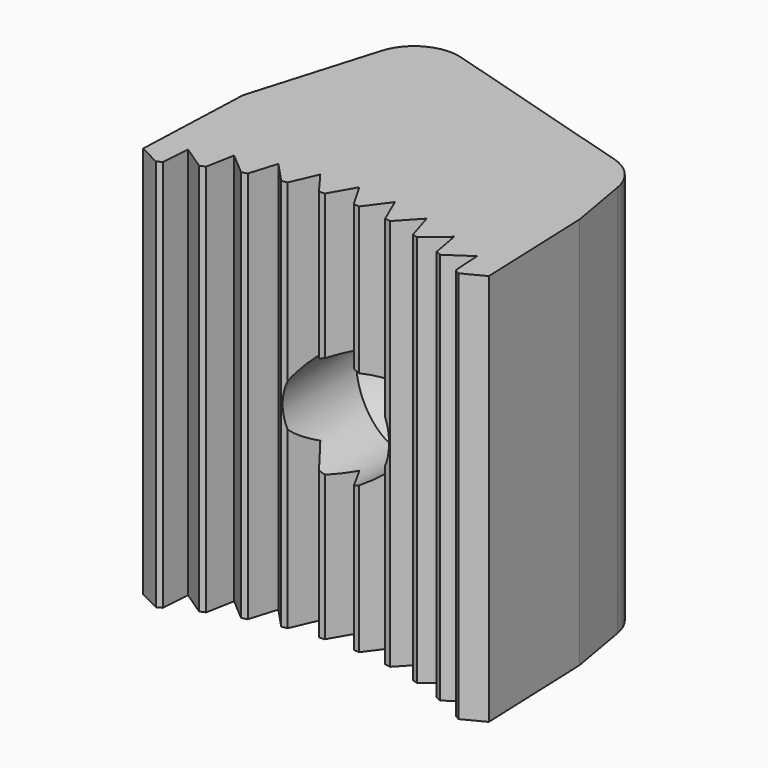
from build123d import *

# Parameters (mm, degrees)
PAD_DEPTH          = 35
SKETCH003_R        = 4.75
POCKET_DEPTH       = 12.893309
PAD001_DEPTH       = 35
SKETCH005_R        = 8
POCKET001_DEPTH    = 13
POCKET002_DEPTH    = 143.950619
POLARPATTERN_COUNT = 55
FILLET_R           = 4


with BuildPart() as part:
    # Sketch → Pad (new body)
    with BuildSketch(Plane.XY):
        with BuildLine():
            ThreePointArc((15.5, 22.107691), (0, 27), (-15.5, 22.107691))
            Line((-15.5, 22.107691), (-15, 35))
            Line((-15, 35), (15, 35))
            Line((15, 35), (15.5, 22.107691))
        make_face()
    extrude(amount=PAD_DEPTH)

    # Sketch003 (on Face3 of Pad) → Pocket (cut, through all)
    with BuildSketch(Plane(origin=(0, 35, 0), x_dir=(-1, 0, 0), z_dir=(0, 1, 0))):
        with Locations((0, 17.5)):
            Circle(SKETCH003_R)
    extrude(amount=-POCKET_DEPTH, mode=Mode.SUBTRACT)

    # Sketch004 (on Face3 of Pocket) → Pad001 (join)
    with BuildSketch(Plane(origin=(0, 0, 0), x_dir=(1, 0, 0), z_dir=(0, 0, -1))):
        Polygon((-15, -35), (-10.519122, -50.063099), (13.624797, -42.880915), (15, -35), align=None)
    extrude(amount=-PAD001_DEPTH)

    # Sketch005 (on Face12 of Pad001) → Pocket001 (cut)
    with BuildSketch(Plane(origin=(12.826585, 43.118362, 0), x_dir=(-0.95849, 0.285126, 0), z_dir=(0.285126, 0.95849, 0))):
        with Locations((12.213826, 17.5)):
            Circle(SKETCH005_R)
    extrude(amount=-POCKET001_DEPTH, mode=Mode.SUBTRACT)

    # Sketch001 (on Face4 of Pocket001) → Pocket002 (cut, through all)
    with BuildSketch(Plane.XY.offset(35)):
        Polygon((-7.025, 17.032343), (0, 29.2), (7.025, 17.032343), align=None)
    pocket002 = extrude(amount=-POCKET002_DEPTH, mode=Mode.SUBTRACT)

    # PolarPattern: Pocket002 ×55 about axis
    polarpattern_axis = Axis((0, 0, 35), (0, 0, 1))
    for i in range(1, POLARPATTERN_COUNT):
        add(pocket002.rotate(polarpattern_axis, i * 360 / POLARPATTERN_COUNT), mode=Mode.SUBTRACT)

    # Fillet
    fillet_edges = [part.edges().sort_by_distance(p)[0] for p in [
        (13.624797, 42.880915, 17.5),
        (-10.519122, 50.063099, 17.5),
    ]]
    fillet(fillet_edges, radius=FILLET_R)


solid = part.part
